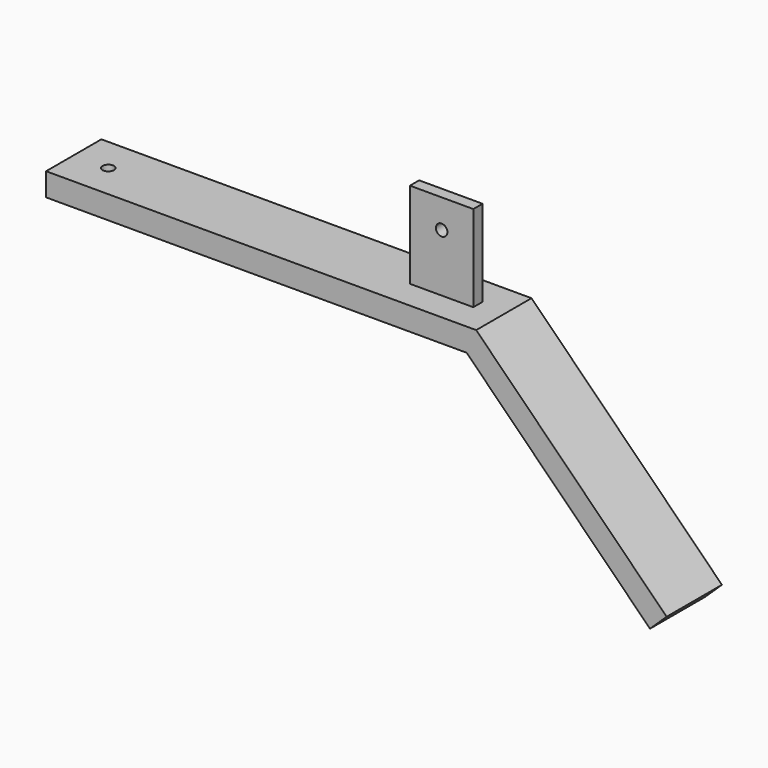
from build123d import *

# Parameters (mm, degrees)
F1_DEPTH = 12
F2_W     = 11
F2_H     = 2
F3_DEPTH = 15
F4_R     = 1
F5_DEPTH = 7.001
F6_R     = 1
F7_DEPTH = 35.820805


with BuildPart() as f1:
    # F0 (on Front) → F1 (new body)
    with BuildSketch(Plane.XZ):
        Polygon((-64.93865, 4), (-64.93865, 0), (8.06135, 0), (39.881155, -31.819805), (42.7677, -29.049495), (9.718204, 4), align=None)
    extrude(amount=F1_DEPTH)

    # F2 (on face) → F3 (join)
    with BuildSketch(Plane.XY.offset(4)):
        with Locations((-0.281796, -6)):
            Rectangle(F2_W, F2_H)
    extrude(amount=F3_DEPTH)

    # F4 (on face) → F5 (cut, through all)
    with BuildSketch(Plane(origin=(0, -5, 0), x_dir=(-1, 0, 0), z_dir=(0, 1, 0))):
        with Locations((0.281796, 14)):
            Circle(F4_R)
    extrude(amount=-F5_DEPTH, mode=Mode.SUBTRACT)

    # F6 (on face) → F7 (cut, through all)
    with BuildSketch(Plane.XY.offset(4)):
        with Locations((-58.93865, -6)):
            Circle(F6_R)
    extrude(amount=-F7_DEPTH, mode=Mode.SUBTRACT)


solid = f1.part
